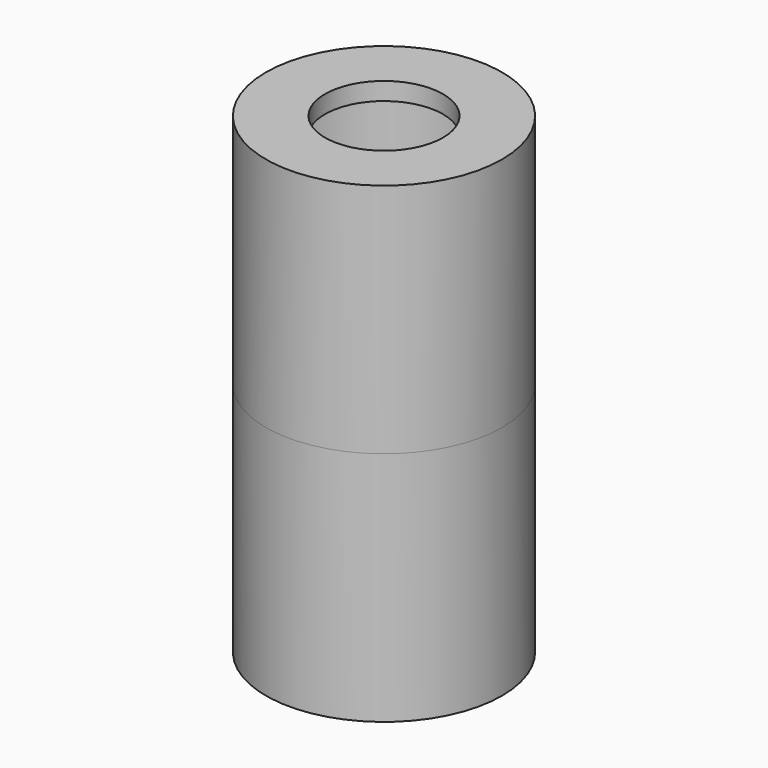
from build123d import *


with BuildPart() as f1:
    # F0 (on Front) → F1 (revolve)
    with BuildSketch(Plane.XZ):
        Polygon((20, 40), (10, 40), (10, 37), (17, 37), (17, 5), (18.7, 5), (18.7, 0), (20, 0), align=None)
    revolve(axis=Axis((0, 0, 19.905933), (0, 0, 1)))


with BuildPart() as f3:
    # F2 (on Front) → F3 (revolve)
    with BuildSketch(Plane.XZ):
        Polygon((20, -40), (20, 0), (18.4, 0), (18.4, 5), (17, 5), (17, 0), (17, -37), (10, -37), (10, -40), align=None)
    revolve(axis=Axis((0, 0, -11.35268), (0, 0, -1)))


solid = Compound([f1.part, f3.part])
